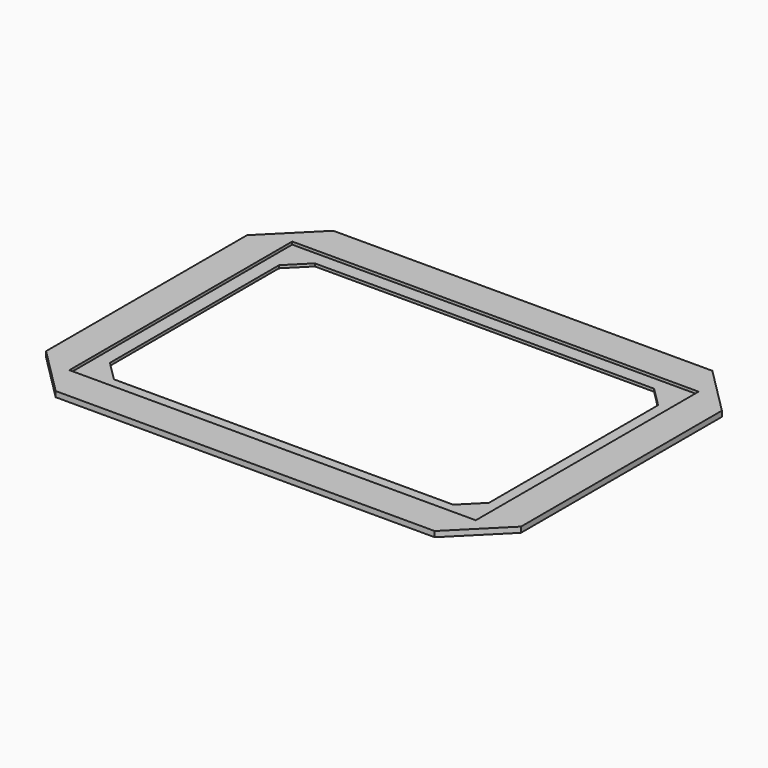
from build123d import *

# Parameters (mm, degrees)
PAD_DEPTH    = 6
SKETCH001_W  = 445
SKETCH001_H  = 305
POCKET_DEPTH = 3


with BuildPart() as part:
    # Sketch → Pad (new body)
    with BuildSketch(Plane.XY):
        Polygon((-207.5, 190), (207.5, 190), (260, 137.5), (260, -137.5), (207.5, -190), (-207.5, -190), (-260, -137.5), (-260, 137.5), align=None)
        Polygon((-207.5, -115.753788), (-207.5, 115.753788), (-185.753788, 137.5), (185.753788, 137.5), (207.5, 115.753788), (207.5, -115.753788), (185.753788, -137.5), (-185.753788, -137.5), align=None, mode=Mode.SUBTRACT)
    extrude(amount=PAD_DEPTH)

    # Sketch001 (on Face18 of Pad) → Pocket (cut)
    with BuildSketch(Plane.XY.offset(6)):
        Rectangle(SKETCH001_W, SKETCH001_H)
    extrude(amount=-POCKET_DEPTH, mode=Mode.SUBTRACT)


solid = part.part
